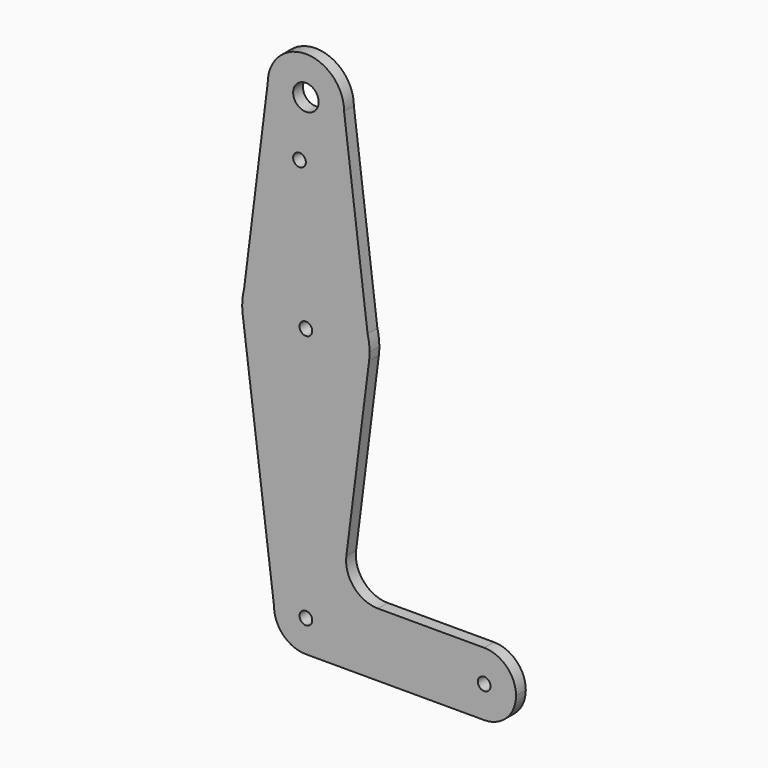
from build123d import *

# Parameters (mm, degrees)
F0_R     = 3.175
F0_R_2   = 1.5875
F1_DEPTH = 3.048
F2_DEPTH = 3.048


with BuildPart() as f1:
    # F0 (on Front) → F1 (new body)
    with BuildSketch(Plane.XZ):
        with BuildLine():
            ThreePointArc((-9.525, 114.3), (0, 104.775), (9.525, 114.3))
            ThreePointArc((9.525, 114.3), (0, 123.825), (-9.525, 114.3))
        make_face()
        with Locations((0, 114.3)):
            Circle(F0_R, mode=Mode.SUBTRACT)
        with BuildLine():
            Line((15.386538, 67.407692), (9.525, 114.3))
            ThreePointArc((9.525, 114.3), (0, 104.775), (-9.525, 114.3))
            Line((-9.525, 114.3), (-15.386538, 67.407692))
            ThreePointArc((-15.386538, 67.407692), (0, 79.375), (15.386538, 67.407692))
        make_face()
        with Locations((-1.5875, 100.0252)):
            Circle(F0_R_2, mode=Mode.SUBTRACT)
        with BuildLine():
            Line((15.875, 63.5), (15.386538, 67.407692))
            ThreePointArc((15.386538, 67.407692), (0, 79.375), (-15.386538, 67.407692))
            Line((-15.386538, 67.407692), (-15.875, 63.5))
            ThreePointArc((-15.875, 63.5), (-15.84334, 62.497907), (-15.748488, 61.499811))
            ThreePointArc((-15.748488, 61.499811), (0, 47.625), (15.748488, 61.499811))
            ThreePointArc((15.748488, 61.499811), (15.84334, 62.497907), (15.875, 63.5))
        make_face()
        with Locations((0, 63.5)):
            Circle(F0_R_2, mode=Mode.SUBTRACT)
        with BuildLine():
            ThreePointArc((15.875, 63.5), (15.752411, 65.469051), (15.386538, 67.407692))
            Line((15.386538, 67.407692), (15.875, 63.5))
        make_face()
        with BuildLine():
            Line((-15.875, 63.5), (-15.386538, 67.407692))
            ThreePointArc((-15.386538, 67.407692), (-15.752411, 65.469051), (-15.875, 63.5))
        make_face()
        with BuildLine():
            Line((10.082594, 16.889395), (15.748488, 61.499811))
            ThreePointArc((15.748488, 61.499811), (0, 47.625), (-15.748488, 61.499811))
            Line((-15.748488, 61.499811), (-7.9375, 0))
            ThreePointArc((-7.9375, 0), (0, 7.9375), (7.9375, 0))
            ThreePointArc((7.9375, 0), (5.61266, -5.61266), (0, -7.9375))
            Line((0, -7.9375), (44.45, -7.9375))
            ThreePointArc((44.45, -7.9375), (36.5125, 0), (44.45, 7.9375))
            Line((44.45, 7.9375), (17.969436, 7.9375))
            ThreePointArc((17.969436, 7.9375), (12.004147, 10.632131), (10.082594, 16.889395))
        make_face()
        with BuildLine():
            ThreePointArc((7.9375, 0), (0, 7.9375), (-7.9375, 0))
            ThreePointArc((-7.9375, 0), (-5.61266, -5.61266), (0, -7.9375))
            ThreePointArc((0, -7.9375), (5.61266, -5.61266), (7.9375, 0))
        make_face()
        Circle(F0_R_2, mode=Mode.SUBTRACT)
        with BuildLine():
            ThreePointArc((52.3875, 0), (50.06266, 5.61266), (44.45, 7.9375))
            ThreePointArc((44.45, 7.9375), (36.5125, 0), (44.45, -7.9375))
            ThreePointArc((44.45, -7.9375), (50.06266, -5.61266), (52.3875, 0))
        make_face()
        with Locations((44.45, 0)):
            Circle(F0_R_2, mode=Mode.SUBTRACT)
    extrude(amount=F1_DEPTH)

    # F0 (on Front) → F2 (join)
    with BuildSketch(Plane.XZ):
        with BuildLine():
            ThreePointArc((-9.525, 114.3), (0, 104.775), (9.525, 114.3))
            ThreePointArc((9.525, 114.3), (0, 123.825), (-9.525, 114.3))
        make_face()
        with Locations((0, 114.3)):
            Circle(F0_R, mode=Mode.SUBTRACT)
        with BuildLine():
            Line((15.386538, 67.407692), (9.525, 114.3))
            ThreePointArc((9.525, 114.3), (0, 104.775), (-9.525, 114.3))
            Line((-9.525, 114.3), (-15.386538, 67.407692))
            ThreePointArc((-15.386538, 67.407692), (0, 79.375), (15.386538, 67.407692))
        make_face()
        with Locations((-1.5875, 100.0252)):
            Circle(F0_R_2, mode=Mode.SUBTRACT)
        with BuildLine():
            Line((15.875, 63.5), (15.386538, 67.407692))
            ThreePointArc((15.386538, 67.407692), (0, 79.375), (-15.386538, 67.407692))
            Line((-15.386538, 67.407692), (-15.875, 63.5))
            ThreePointArc((-15.875, 63.5), (-15.84334, 62.497907), (-15.748488, 61.499811))
            ThreePointArc((-15.748488, 61.499811), (0, 47.625), (15.748488, 61.499811))
            ThreePointArc((15.748488, 61.499811), (15.84334, 62.497907), (15.875, 63.5))
        make_face()
        with Locations((0, 63.5)):
            Circle(F0_R_2, mode=Mode.SUBTRACT)
        with BuildLine():
            ThreePointArc((15.875, 63.5), (15.752411, 65.469051), (15.386538, 67.407692))
            Line((15.386538, 67.407692), (15.875, 63.5))
        make_face()
        with BuildLine():
            Line((-15.875, 63.5), (-15.386538, 67.407692))
            ThreePointArc((-15.386538, 67.407692), (-15.752411, 65.469051), (-15.875, 63.5))
        make_face()
        with BuildLine():
            Line((10.082594, 16.889395), (15.748488, 61.499811))
            ThreePointArc((15.748488, 61.499811), (0, 47.625), (-15.748488, 61.499811))
            Line((-15.748488, 61.499811), (-7.9375, 0))
            ThreePointArc((-7.9375, 0), (0, 7.9375), (7.9375, 0))
            ThreePointArc((7.9375, 0), (5.61266, -5.61266), (0, -7.9375))
            Line((0, -7.9375), (44.45, -7.9375))
            ThreePointArc((44.45, -7.9375), (36.5125, 0), (44.45, 7.9375))
            Line((44.45, 7.9375), (17.969436, 7.9375))
            ThreePointArc((17.969436, 7.9375), (12.004147, 10.632131), (10.082594, 16.889395))
        make_face()
        with BuildLine():
            ThreePointArc((7.9375, 0), (0, 7.9375), (-7.9375, 0))
            ThreePointArc((-7.9375, 0), (-5.61266, -5.61266), (0, -7.9375))
            ThreePointArc((0, -7.9375), (5.61266, -5.61266), (7.9375, 0))
        make_face()
        Circle(F0_R_2, mode=Mode.SUBTRACT)
        with BuildLine():
            ThreePointArc((52.3875, 0), (50.06266, 5.61266), (44.45, 7.9375))
            ThreePointArc((44.45, 7.9375), (36.5125, 0), (44.45, -7.9375))
            ThreePointArc((44.45, -7.9375), (50.06266, -5.61266), (52.3875, 0))
        make_face()
        with Locations((44.45, 0)):
            Circle(F0_R_2, mode=Mode.SUBTRACT)
    extrude(amount=F2_DEPTH)


solid = f1.part
